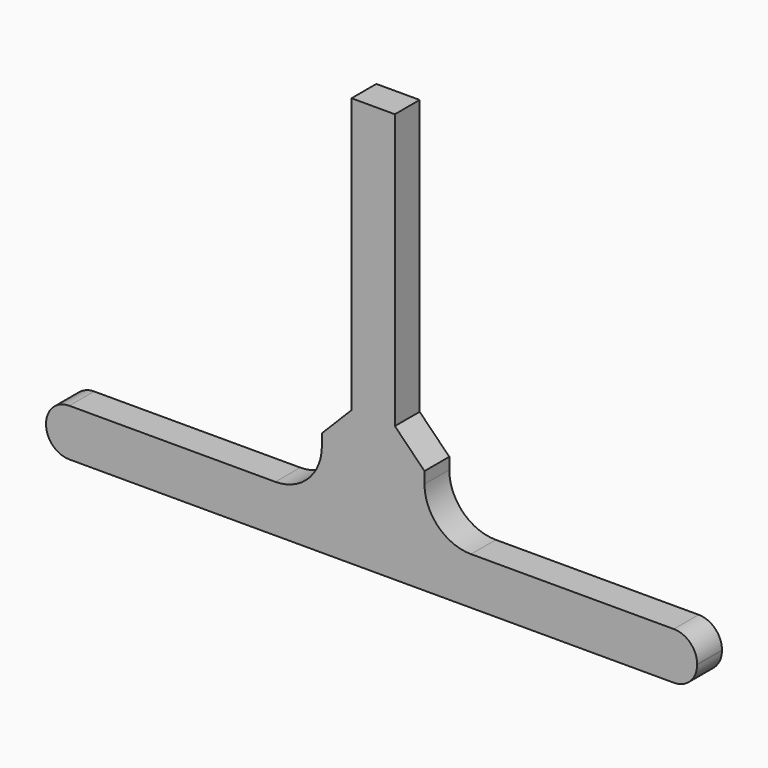
from build123d import *

# Parameters (mm, degrees)
PAD002_DEPTH = 4
FILLET005_R  = 3
FILLET006_R  = 6


with BuildPart() as part:
    # Sketch003 → Pad002 (new body)
    with BuildSketch(Plane.XZ.offset(25)):
        Polygon((-4.149489, 3.072018), (31.436102, 3.072018), (31.436102, 10.54521), (35.263586, 14.418702), (35.263586, 49.841579), (40.852331, 49.841579), (40.852331, 14.418702), (44.676023, 10.554439), (44.676023, 3.072018), (79.850511, 3.072018), (79.850511, -3.027098), (-4.149489, -3.027098), align=None)
    extrude(amount=PAD002_DEPTH)

    # Fillet005
    fillet005_edges = [part.edges().sort_by_distance(p)[0] for p in [
        (79.850511, -27, 3.072018),
        (79.850511, -27, -3.027098),
        (-4.149489, -27, -3.027098),
        (-4.149489, -27, 3.072018),
    ]]
    fillet(fillet005_edges, radius=FILLET005_R)

    # Fillet006
    fillet006_edges = [part.edges().sort_by_distance(p)[0] for p in [
        (44.676023, -27, 3.072018),
        (31.436102, -27, 3.072018),
    ]]
    fillet(fillet006_edges, radius=FILLET006_R)


solid = part.part
